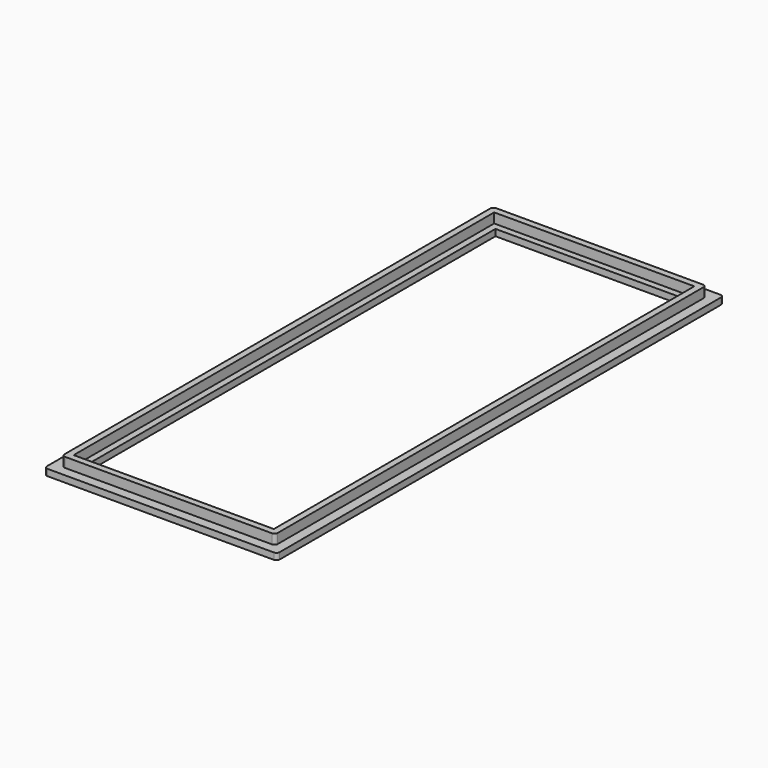
from build123d import *

# Parameters (mm, degrees)
F1_DEPTH = 2.54
F3_DEPTH = 6.35
F4_W     = 78.105
F4_H     = 205.105
F5_DEPTH = 3.81
F6_W     = 73.025
F6_H     = 200.025
F7_DEPTH = 2.54


with BuildPart() as f1:
    # F0 (on Top) → F1 (new body)
    with BuildSketch(Plane.XY):
        with BuildLine():
            ThreePointArc((0, 1.27), (0.371974, 0.371974), (1.27, 0))
            Line((1.27, 0), (89.535, 0))
            ThreePointArc((89.535, 0), (90.433026, 0.371974), (90.805, 1.27))
            Line((90.805, 1.27), (90.805, 216.535))
            ThreePointArc((90.805, 216.535), (90.433026, 217.433026), (89.535, 217.805))
            Line((89.535, 217.805), (1.27, 217.805))
            ThreePointArc((1.27, 217.805), (0.371974, 217.433026), (0, 216.535))
            Line((0, 216.535), (0, 1.27))
        make_face()
    extrude(amount=F1_DEPTH)

    # F2 (on Top) → F3 (join)
    with BuildSketch(Plane.XY):
        with BuildLine():
            Line((3.81, 212.725), (3.81, 5.08))
            ThreePointArc((3.81, 5.08), (4.181974, 4.181974), (5.08, 3.81))
            Line((5.08, 3.81), (85.725, 3.81))
            ThreePointArc((85.725, 3.81), (86.623026, 4.181974), (86.995, 5.08))
            Line((86.995, 5.08), (86.995, 212.725))
            ThreePointArc((86.995, 212.725), (86.623026, 213.623026), (85.725, 213.995))
            Line((85.725, 213.995), (5.08, 213.995))
            ThreePointArc((5.08, 213.995), (4.181974, 213.623026), (3.81, 212.725))
        make_face()
    extrude(amount=F3_DEPTH)

    # F4 (on face) → F5 (cut)
    with BuildSketch(Plane.XY.offset(6.35)):
        with Locations((45.4025, 108.9025)):
            Rectangle(F4_W, F4_H)
    extrude(amount=-F5_DEPTH, mode=Mode.SUBTRACT)

    # F6 (on face) → F7 (cut)
    with BuildSketch(Plane.XY.offset(2.54)):
        with Locations((45.4025, 108.9025)):
            Rectangle(F6_W, F6_H)
    extrude(amount=-F7_DEPTH, mode=Mode.SUBTRACT)


solid = f1.part
